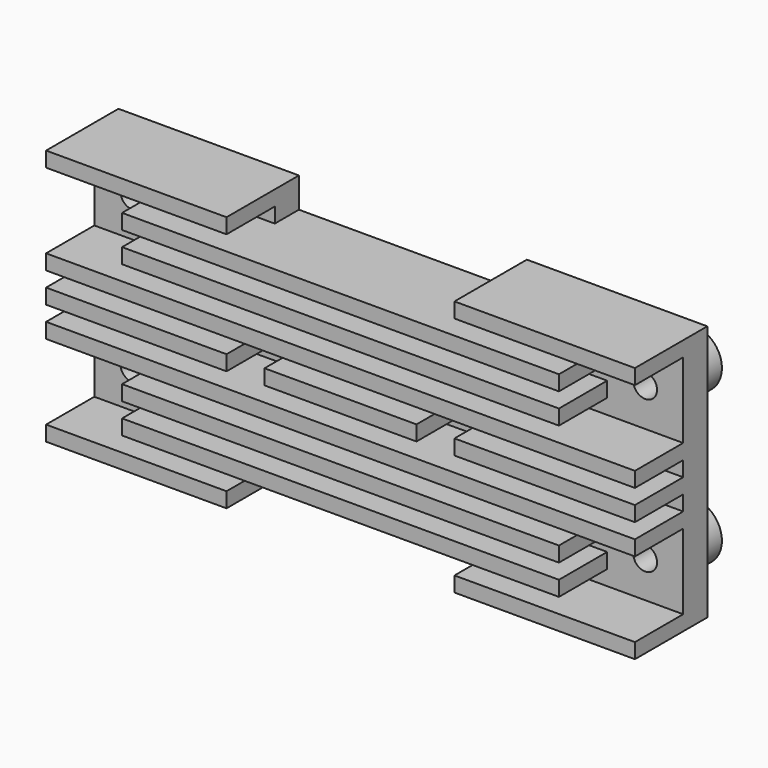
from build123d import *

# Parameters (mm, degrees)
F1_DEPTH = 9.525
F2_W     = 19
F2_H     = 1.5875
F2_W_2   = 62
F4_DEPTH = 6.35
F5_R     = 3
F5_R_2   = 1.25
F5_W     = 4.6
F5_H     = 6.1
F7_DEPTH = 6.35
F5_W_2   = 8
F5_H_2   = 7
F5_W_3   = 4
F5_H_3   = 4
F8_DEPTH = 6.351
F9_DEPTH = 6.351


with BuildPart() as f1:
    # F0 (on Front) → F1 (new body)
    with BuildSketch(Plane.XZ):
        Polygon((-12, 13.4935), (-31, 13.4935), (-31, -13.4935), (-12, -13.4935), (-12, -10.31875), (0, -10.31875), (12, -10.31875), (12, -13.4935), (31, -13.4935), (31, 13.4935), (12, 13.4935), (12, 10.31875), (0, 10.31875), (-12, 10.31875), align=None)
    extrude(amount=F1_DEPTH)

    # F2 (on face) → F4 (cut, through all)
    with BuildSketch(Plane.XZ.offset(9.525)):
        with Locations((-21.5, 11.1125)):
            Rectangle(F2_W, F2_H)
        with Locations((21.5, 11.1125)):
            Rectangle(F2_W, F2_H)
        with Locations((0, 7.9375)):
            Rectangle(F2_W_2, F2_H)
        with Locations((0, 4.7625)):
            Rectangle(F2_W_2, F2_H)
        with Locations((0, 1.5875)):
            Rectangle(F2_W_2, F2_H)
        with Locations((0, -1.5875)):
            Rectangle(F2_W_2, F2_H)
        with Locations((0, -4.7625)):
            Rectangle(F2_W_2, F2_H)
        with Locations((0, -7.9375)):
            Rectangle(F2_W_2, F2_H)
        with Locations((-21.5, -11.1125)):
            Rectangle(F2_W, F2_H)
        with Locations((21.5, -11.1125)):
            Rectangle(F2_W, F2_H)
    extrude(amount=-F4_DEPTH, mode=Mode.SUBTRACT)

    # F5 (on offset) → F7 (join, through all)
    with BuildSketch(Plane.XZ.offset(3.175)):
        with Locations((-27, 8)):
            Circle(F5_R)
        with Locations((-27, 8)):
            Circle(F5_R_2, mode=Mode.SUBTRACT)
        with Locations((-27, -8)):
            Circle(F5_R)
        with Locations((-27, -8)):
            Circle(F5_R_2, mode=Mode.SUBTRACT)
        with Locations((27, 8)):
            Circle(F5_R)
        with Locations((27, 8)):
            Circle(F5_R_2, mode=Mode.SUBTRACT)
        with Locations((27, -8)):
            Circle(F5_R)
        with Locations((27, -8)):
            Circle(F5_R_2, mode=Mode.SUBTRACT)
        with Locations((0, -1.25)):
            Rectangle(F5_W, F5_H)
    extrude(amount=-F7_DEPTH)

    # F5 (on offset) → F8 (cut, through all)
    with BuildSketch(Plane.XZ.offset(3.175)):
        with Locations((-27, 8)):
            Rectangle(F5_W_2, F5_H_2)
        with Locations((-27, 8)):
            Circle(F5_R, mode=Mode.SUBTRACT)
        with Locations((-27, -8)):
            Rectangle(F5_W_2, F5_H_2)
        with Locations((-27, -8)):
            Circle(F5_R, mode=Mode.SUBTRACT)
        with Locations((27, 8)):
            Rectangle(F5_W_2, F5_H_2)
        with Locations((27, 8)):
            Circle(F5_R, mode=Mode.SUBTRACT)
        with Locations((27, -8)):
            Rectangle(F5_W_2, F5_H_2)
        with Locations((27, -8)):
            Circle(F5_R, mode=Mode.SUBTRACT)
        with Locations((-27, 8)):
            Circle(F5_R)
        with Locations((-27, 8)):
            Circle(F5_R_2, mode=Mode.SUBTRACT)
        with Locations((-27, -8)):
            Circle(F5_R)
        with Locations((-27, -8)):
            Circle(F5_R_2, mode=Mode.SUBTRACT)
        with Locations((27, 8)):
            Circle(F5_R)
        with Locations((27, 8)):
            Circle(F5_R_2, mode=Mode.SUBTRACT)
        with Locations((27, -8)):
            Circle(F5_R)
        with Locations((27, -8)):
            Circle(F5_R_2, mode=Mode.SUBTRACT)
        with Locations((-10, 0)):
            Rectangle(F5_W_3, F5_H_3)
        with Locations((-10, 0)):
            Circle(F5_R_2, mode=Mode.SUBTRACT)
        with Locations((10, 0)):
            Rectangle(F5_W_3, F5_H_3)
        with Locations((10, 0)):
            Circle(F5_R_2, mode=Mode.SUBTRACT)
        with Locations((-27, 8)):
            Circle(F5_R_2)
        with Locations((-27, -8)):
            Circle(F5_R_2)
        with Locations((-10, 0)):
            Circle(F5_R_2)
        with Locations((27, 8)):
            Circle(F5_R_2)
        with Locations((27, -8)):
            Circle(F5_R_2)
        with Locations((10, 0)):
            Circle(F5_R_2)
    extrude(amount=F8_DEPTH, mode=Mode.SUBTRACT)

    # F5 (on offset) → F9 (cut, through all)
    with BuildSketch(Plane.XZ.offset(3.175)):
        with Locations((-27, 8)):
            Circle(F5_R_2)
        with Locations((-27, -8)):
            Circle(F5_R_2)
        with Locations((27, 8)):
            Circle(F5_R_2)
        with Locations((27, -8)):
            Circle(F5_R_2)
        with Locations((-10, 0)):
            Circle(F5_R_2)
        with Locations((10, 0)):
            Circle(F5_R_2)
    extrude(amount=-F9_DEPTH, mode=Mode.SUBTRACT)


solid = f1.part
